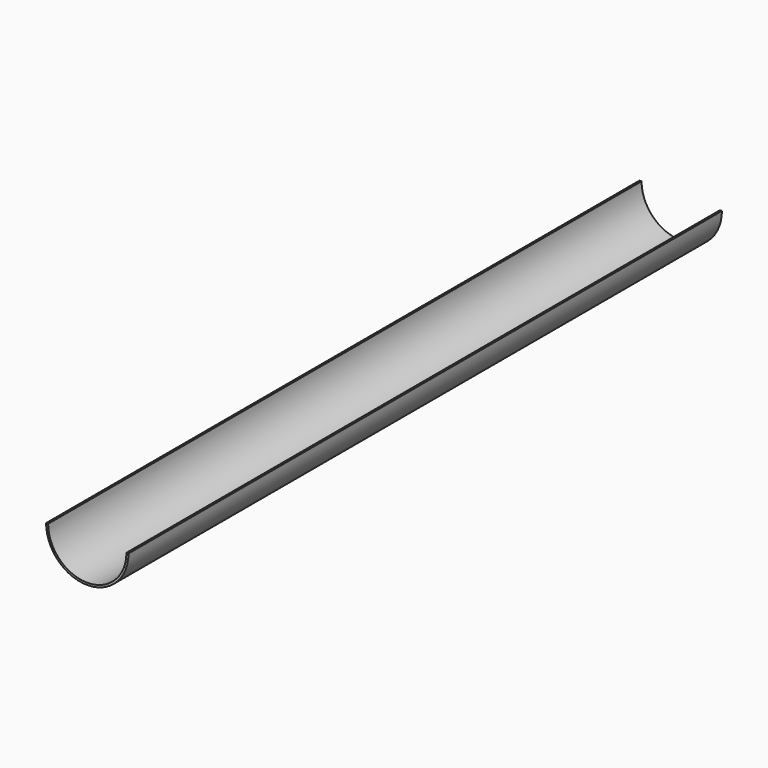
from build123d import *

# Parameters (mm, degrees)
F1_DEPTH = 457.2
F3_DEPTH = 457.201


with BuildPart() as f1:
    # F0 (on Front) → F1 (new body)
    with BuildSketch(Plane.XZ):
        with BuildLine():
            Line((0, 0), (-25.4, 0))
            ThreePointArc((-25.4, 0), (0, -25.4), (25.4, 0))
            Line((25.4, 0), (0, 0))
        make_face()
    extrude(amount=F1_DEPTH)

    # F2 (on face) → F3 (cut, through all)
    with BuildSketch(Plane.XZ.offset(457.2)):
        with BuildLine():
            Line((19.486204, 0), (-24.13, 0))
            ThreePointArc((-24.13, 0), (0, -24.13), (24.13, 0))
            Line((24.13, 0), (19.486204, 0))
        make_face()
    extrude(amount=-F3_DEPTH, mode=Mode.SUBTRACT)


solid = f1.part
